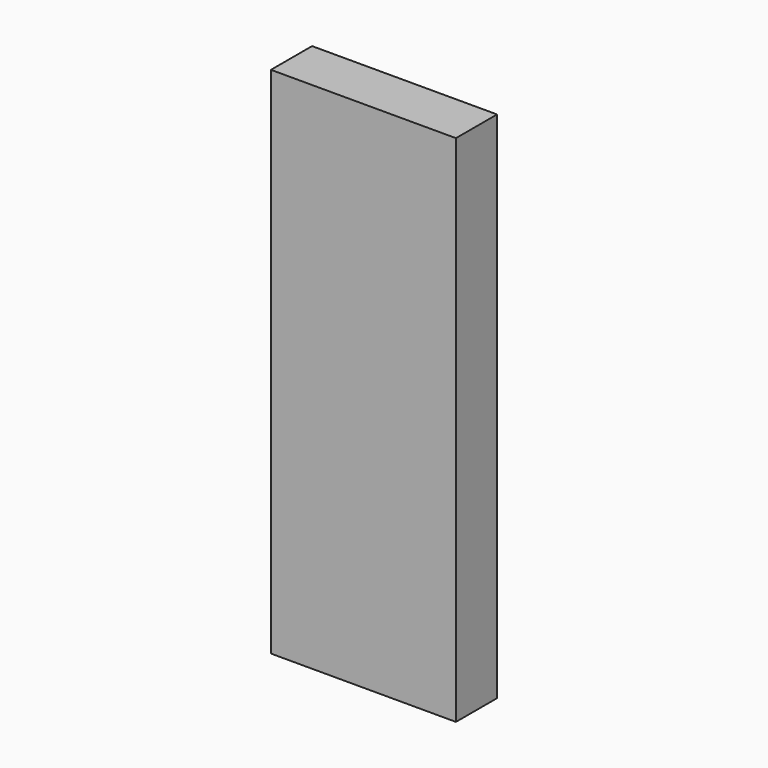
from build123d import *

# Parameters (mm, degrees)
F0_W     = 36
F0_H     = 100
F1_DEPTH = 5
F2_R     = 1.5
F3_DEPTH = 25


with BuildPart() as f1:
    # F0 (on Front) → F1 (new body, symmetric)
    with BuildSketch(Plane.XZ):
        Rectangle(F0_W, F0_H)
    extrude(amount=F1_DEPTH, both=True)

    # F2 (on face) → F3 (cut)
    with BuildSketch(Plane(origin=(-18, 0, 0), x_dir=(0, -1, 0), z_dir=(-1, 0, 0))):
        with Locations((0, 47)):
            Circle(F2_R)
        with Locations((0, 33)):
            Circle(F2_R)
    extrude(amount=-F3_DEPTH, mode=Mode.SUBTRACT)


solid = f1.part
